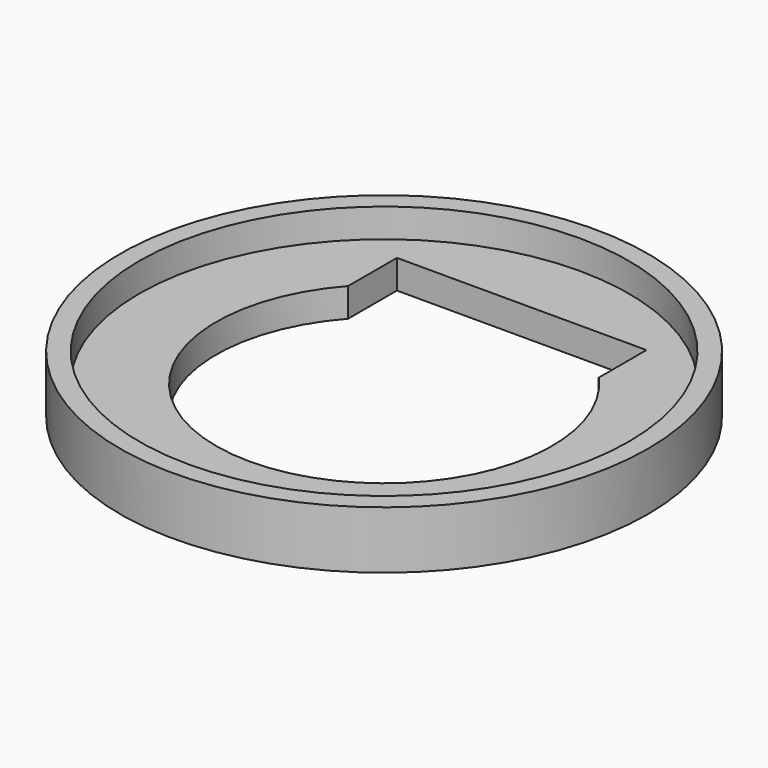
from build123d import *

# Parameters (mm, degrees)
F0_R     = 27.5
F0_R_2   = 17.5
F1_DEPTH = 6
F2_R     = 25.5
F2_R_2   = 17.5
F3_DEPTH = 3
F4_W     = 26
F4_H     = 24
F5_DEPTH = 25


with BuildPart() as f1:
    # F0 (on Top) → F1 (new body)
    with BuildSketch(Plane.XY):
        Circle(F0_R)
        Circle(F0_R_2, mode=Mode.SUBTRACT)
        Circle(F0_R)
        Circle(F0_R_2, mode=Mode.SUBTRACT)
    extrude(amount=F1_DEPTH)

    # F2 (on face) → F3 (cut)
    with BuildSketch(Plane.XY.offset(6)):
        Circle(F2_R)
        Circle(F2_R)
        Circle(F2_R_2, mode=Mode.SUBTRACT)
    extrude(amount=-F3_DEPTH, mode=Mode.SUBTRACT)

    # F4 (on face) → F5 (cut)
    with BuildSketch(Plane(origin=(0, 0, 0), x_dir=(1, 0, 0), z_dir=(0, 0, -1))):
        with Locations((-0.062166, -6)):
            Rectangle(F4_W, F4_H)
    extrude(amount=-F5_DEPTH, mode=Mode.SUBTRACT)


solid = f1.part
